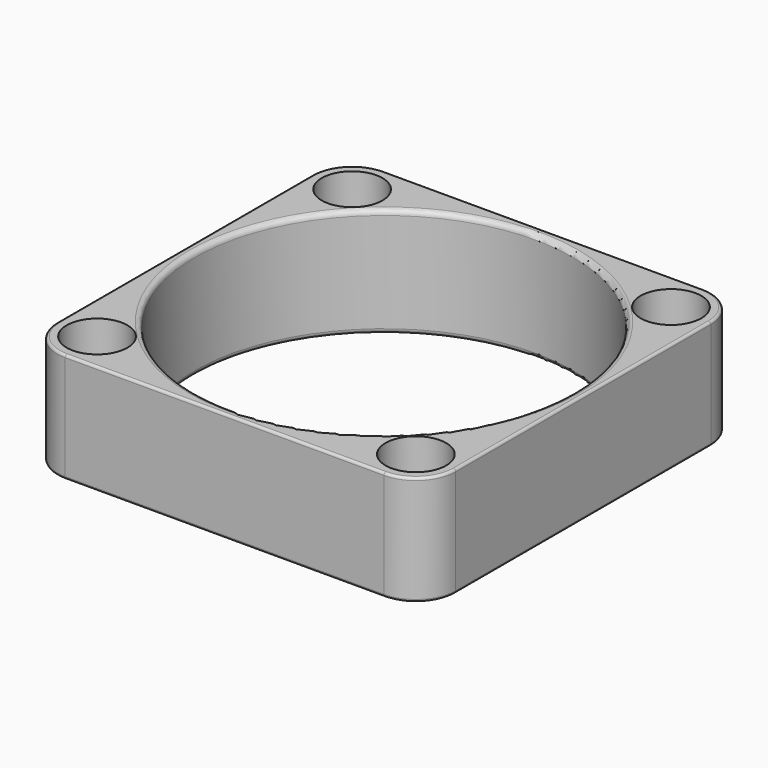
from build123d import *

# Parameters (mm, degrees)
SKETCH049_W         = 40
SKETCH049_H         = 40
PAD016_DEPTH        = 11
SKETCH047_R         = 19
POCKET012_DEPTH     = 11.001
HOLE003_D           = 3.9
HOLE003_DEPTH       = 25
HOLE003_CBORE_D     = 6.1
HOLE003_CBORE_DEPTH = 3.9
FILLET019_R         = 4
FILLET016_R         = 0.5
FILLET018_R         = 0.25


with BuildPart() as part:
    # Sketch049 → Pad016 (new body)
    with BuildSketch(Plane.XY):
        Rectangle(SKETCH049_W, SKETCH049_H)
    extrude(amount=PAD016_DEPTH)

    # Sketch047 (on Face6 of Pad016) → Pocket012 (cut, through all)
    with BuildSketch(Plane.XY.offset(11)):
        Circle(SKETCH047_R)
    extrude(amount=-POCKET012_DEPTH, mode=Mode.SUBTRACT)

    # Hole003
    with Locations(Plane.XY.offset(11)):
        with Locations((16, 16), (16, -16), (-16, 16), (-16, -16)):
            CounterBoreHole(HOLE003_D / 2, HOLE003_CBORE_D / 2, HOLE003_CBORE_DEPTH, depth=HOLE003_DEPTH)

    # Fillet019
    fillet019_edges = [part.edges().sort_by_distance(p)[0] for p in [
        (20, 20, 5.5),
        (-20, 20, 5.5),
        (-20, -20, 5.5),
        (20, -20, 5.5),
    ]]
    fillet(fillet019_edges, radius=FILLET019_R)

    # Fillet016
    fillet016_edges = [part.edges().sort_by_distance(p)[0] for p in [
        (-19, 0, 11),
        (19, 0, 5.5),
        (-19, 0, 0),
    ]]
    fillet(fillet016_edges, radius=FILLET016_R)

    # Fillet018
    fillet018_edges = [part.edges().sort_by_distance(p)[0] for p in [
        (0, -20, 0),
        (16, -20, 5.5),
        (-16, -20, 5.5),
        (0, -20, 11),
        (20, 0, 0),
        (20, 16, 5.5),
        (20, -16, 5.5),
        (20, 0, 11),
        (0, 20, 0),
        (-16, 20, 5.5),
        (16, 20, 5.5),
        (0, 20, 11),
        (-20, 0, 0),
        (-20, -16, 5.5),
        (-20, 16, 5.5),
        (-20, 0, 11),
    ]]
    fillet(fillet018_edges, radius=FILLET018_R)


solid = part.part
